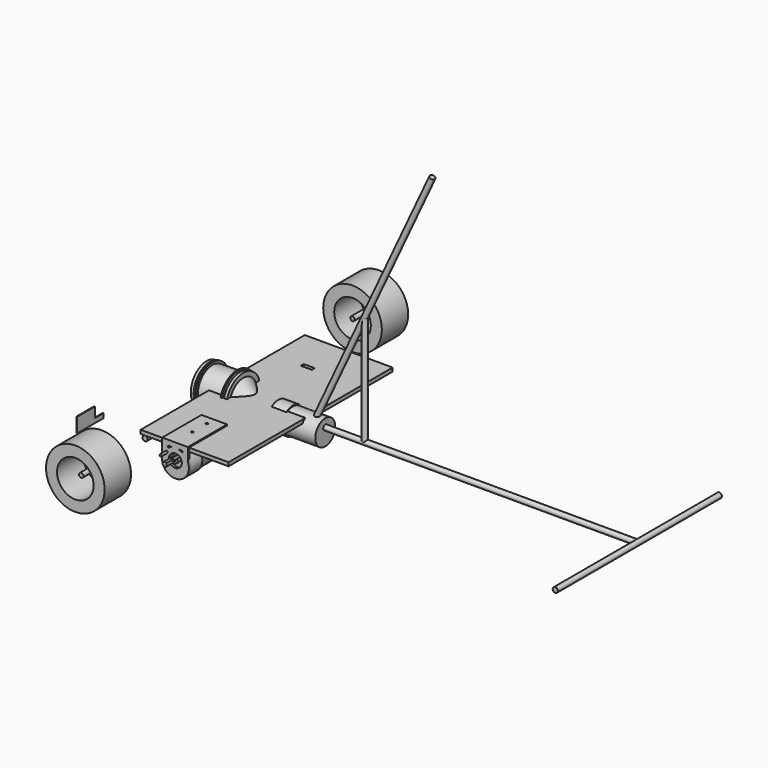
from build123d import *

# Parameters (mm, degrees)
CYLINDER001_R               = 3.5
CYLINDER001_DEPTH           = 280
CYLINDER001_ROLL_ANGLE      = 90
CYLINDER003_R               = 3.5
CYLINDER003_DEPTH           = 150
CYLINDER003_PITCH_ANGLE     = 90
CYLINDER003_PLACEMENT_ANGLE = 36
CYLINDER002_R               = 3.5
CYLINDER002_DEPTH           = 280
CYLINDER002_ROLL_ANGLE      = 90
CYLINDER004_R               = 3.5
CYLINDER004_DEPTH           = 150
CYLINDER004_PITCH_ANGLE     = 90
CYLINDER004_PLACEMENT_ANGLE = -36
CYLINDER005_R               = 3.5
CYLINDER005_DEPTH           = 150
CYLINDER006_R               = 3.5
CYLINDER006_DEPTH           = 384
CYLINDER006_PLACEMENT_ANGLE = 25
CYLINDER_R                  = 3.5
CYLINDER_DEPTH              = 560
CYLINDER_PITCH_ANGLE        = 90
CYLINDER014_R               = 17
CYLINDER014_DEPTH           = 14
CYLINDER015_R               = 5.5
CYLINDER015_DEPTH           = 6
CYLINDER013_R               = 17
CYLINDER013_DEPTH           = 30
BOX002_W                    = 11
BOX002_H                    = 10
BOX002_DEPTH                = 21
CYLINDER016_R               = 3
CYLINDER016_DEPTH           = 15
CYLINDER012_R               = 18.4
CYLINDER012_DEPTH           = 20
FUSION002_ROLL_ANGLE        = 90
CYLINDER019_R               = 17
CYLINDER019_DEPTH           = 14
CYLINDER020_R               = 5.5
CYLINDER020_DEPTH           = 6
CYLINDER018_R               = 17
CYLINDER018_DEPTH           = 30
BOX003_W                    = 11
BOX003_H                    = 10
BOX003_DEPTH                = 21
CYLINDER021_R               = 3
CYLINDER021_DEPTH           = 15
CYLINDER017_R               = 18.4
CYLINDER017_DEPTH           = 20
FUSION003_ROLL_ANGLE        = 90
FUSION003_PLACEMENT_ANGLE   = 180
BOX005_W                    = 15
BOX005_H                    = 5
BOX005_DEPTH                = 16
BOX004_W                    = 15
BOX004_H                    = 5
BOX004_DEPTH                = 16
BOX_W                       = 120
BOX_H                       = 280
BOX_DEPTH                   = 5
CYLINDER024_R               = 3
CYLINDER024_DEPTH           = 35
CYLINDER024_ROLL_ANGLE      = 90
CYLINDER023_R               = 25
CYLINDER023_DEPTH           = 60
CYLINDER023_ROLL_ANGLE      = 90
CYLINDER022_R               = 40
CYLINDER022_DEPTH           = 45
CYLINDER022_ROLL_ANGLE      = 90
CYLINDER027_R               = 3
CYLINDER027_DEPTH           = 35
CYLINDER027_ROLL_ANGLE      = 90
CYLINDER026_R               = 25
CYLINDER026_DEPTH           = 60
CYLINDER026_ROLL_ANGLE      = 90
CYLINDER025_R               = 40
CYLINDER025_DEPTH           = 45
CYLINDER025_ROLL_ANGLE      = 90
FUSION005_PLACEMENT_ANGLE   = 180
BOX007_W                    = 10
BOX007_H                    = 15
BOX007_DEPTH                = 14
BOX006_W                    = 1
BOX006_H                    = 45
BOX006_DEPTH                = 20
CYLINDER030_R               = 17
CYLINDER030_DEPTH           = 14
CYLINDER031_R               = 5.5
CYLINDER031_DEPTH           = 6
CYLINDER029_R               = 17
CYLINDER029_DEPTH           = 30
BOX008_W                    = 11
BOX008_H                    = 10
BOX008_DEPTH                = 21
CYLINDER032_R               = 3
CYLINDER032_DEPTH           = 15
CYLINDER028_R               = 18.4
CYLINDER028_DEPTH           = 20
FUSION006_ROLL_ANGLE        = 90
FUSION006_PLACEMENT_ANGLE   = -90
CYLINDER040_R               = 23
CYLINDER040_DEPTH           = 50
CYLINDER040_PITCH_ANGLE     = 90
CYLINDER039_R               = 25
CYLINDER039_DEPTH           = 34
CYLINDER039_PITCH_ANGLE     = 90
CYLINDER038_R               = 28
CYLINDER038_DEPTH           = 2
CYLINDER038_PITCH_ANGLE     = 90
CYLINDER037_R               = 25
CYLINDER037_DEPTH           = 2
CYLINDER037_PITCH_ANGLE     = 90
CYLINDER036_R               = 27
CYLINDER036_DEPTH           = 4
CYLINDER036_PITCH_ANGLE     = 90
FUSION008_PLACEMENT_ANGLE   = 180
CYLINDER035_R               = 30
CYLINDER035_DEPTH           = 2
CYLINDER035_PITCH_ANGLE     = 90
CYLINDER034_R               = 26
CYLINDER034_DEPTH           = 2
CYLINDER034_PITCH_ANGLE     = 90
CYLINDER033_R               = 29
CYLINDER033_DEPTH           = 4
CYLINDER033_PITCH_ANGLE     = 90
BOX009_W                    = 11
BOX009_H                    = 10
BOX009_DEPTH                = 21
CYLINDER041_R               = 3
CYLINDER041_DEPTH           = 15
CUT009_PITCH_ANGLE          = 90
CONE_PITCH_ANGLE            = -90
BOX012_W                    = 50
BOX012_H                    = 2
BOX012_DEPTH                = 46
BOX012_ROLL_ANGLE           = 45
BOX013_W                    = 50
BOX013_H                    = 2
BOX013_DEPTH                = 46
BOX013_ROLL_ANGLE           = -45
BOX011_W                    = 50
BOX011_H                    = 2
BOX011_DEPTH                = 46
BOX011_ROLL_ANGLE           = 90
BOX010_W                    = 50
BOX010_H                    = 2
BOX010_DEPTH                = 46
CYLINDER047_R               = 2.5
CYLINDER047_DEPTH           = 10
CYLINDER046_R               = 2.5
CYLINDER046_DEPTH           = 10
CYLINDER045_R               = 1.6
CYLINDER045_DEPTH           = 10
CYLINDER044_R               = 1.6
CYLINDER044_DEPTH           = 10
CYLINDER043_R               = 8.8
CYLINDER043_DEPTH           = 3
CYLINDER043_ROLL_ANGLE      = 90
CYLINDER042_R               = 18.4
CYLINDER042_DEPTH           = 3
CYLINDER042_ROLL_ANGLE      = 90
BOX015_W                    = 8
BOX015_H                    = 3
BOX015_DEPTH                = 23
BOX016_W                    = 7
BOX016_H                    = 3
BOX016_DEPTH                = 23
BOX014_W                    = 35
BOX014_H                    = 67
BOX014_DEPTH                = 7
CYLINDER048_R               = 1.5
CYLINDER048_DEPTH           = 10
CYLINDER048_ROLL_ANGLE      = 90
CYLINDER049_R               = 1.5
CYLINDER049_DEPTH           = 10
CYLINDER049_ROLL_ANGLE      = 90


with BuildPart() as obj1:
    # Cylinder001 → Cylinder001 (new body)
    with BuildSketch(Plane.XY):
        Circle(CYLINDER001_R)
    extrude(amount=CYLINDER001_DEPTH)


with BuildPart() as obj1_1:
    # Cylinder001 roll: moved
    add(obj1.part.rotate(Axis((0, 0, 0), (1, 0, 0)), CYLINDER001_ROLL_ANGLE))


with BuildPart() as obj1_2:
    # Cylinder001 placement: moved
    add(obj1_1.part.moved(Location((0, 140, 0))))


with BuildPart() as soporte_derecho:
    # Cylinder003 → Cylinder003 (new body)
    with BuildSketch(Plane.XY):
        Circle(CYLINDER003_R)
    extrude(amount=CYLINDER003_DEPTH)


with BuildPart() as soporte_derecho_1:
    # Cylinder003 pitch: moved
    add(soporte_derecho.part.rotate(Axis((0, 0, 0), (0, 1, 0)), CYLINDER003_PITCH_ANGLE))


with BuildPart() as soporte_derecho_2:
    # Cylinder003 placement: moved
    add(soporte_derecho_1.part.moved(Location((0, -90, 0))).rotate(Axis((0, -90, 0), (0, 0, 1)), CYLINDER003_PLACEMENT_ANGLE))


with BuildPart() as obj2:
    # Cylinder002 → Cylinder002 (new body)
    with BuildSketch(Plane.XY):
        Circle(CYLINDER002_R)
    extrude(amount=CYLINDER002_DEPTH)


with BuildPart() as obj2_1:
    # Cylinder002 roll: moved
    add(obj2.part.rotate(Axis((0, 0, 0), (1, 0, 0)), CYLINDER002_ROLL_ANGLE))


with BuildPart() as obj2_2:
    # Cylinder002 placement: moved
    add(obj2_1.part.moved(Location((560, 140, 0))))


with BuildPart() as soporte_izquierdo:
    # Cylinder004 → Cylinder004 (new body)
    with BuildSketch(Plane.XY):
        Circle(CYLINDER004_R)
    extrude(amount=CYLINDER004_DEPTH)


with BuildPart() as soporte_izquierdo_1:
    # Cylinder004 pitch: moved
    add(soporte_izquierdo.part.rotate(Axis((0, 0, 0), (0, 1, 0)), CYLINDER004_PITCH_ANGLE))


with BuildPart() as soporte_izquierdo_2:
    # Cylinder004 placement: moved
    add(soporte_izquierdo_1.part.moved(Location((0, 90, 0))).rotate(Axis((0, 90, 0), (0, 0, 1)), CYLINDER004_PLACEMENT_ANGLE))


with BuildPart() as obj3:
    # Cylinder005 → Cylinder005 (new body)
    with BuildSketch(Plane(origin=(188, 0, 0), x_dir=(1, 0, 0), z_dir=(0, 0, 1))):
        Circle(CYLINDER005_R)
    extrude(amount=CYLINDER005_DEPTH)


with BuildPart() as obj4:
    # Cylinder006 → Cylinder006 (new body)
    with BuildSketch(Plane.XY):
        Circle(CYLINDER006_R)
    extrude(amount=CYLINDER006_DEPTH)


with BuildPart() as obj4_1:
    # Cylinder006 placement: moved
    add(obj4.part.moved(Location((118, 0, 0))).rotate(Axis((118, 0, 0), (0, 1, 0)), CYLINDER006_PLACEMENT_ANGLE))


with BuildPart() as obj5:
    # Cylinder → Cylinder (new body)
    with BuildSketch(Plane.XY):
        Circle(CYLINDER_R)
    extrude(amount=CYLINDER_DEPTH)


with BuildPart() as obj5_1:
    # Cylinder pitch: moved
    add(obj5.part.rotate(Axis((0, 0, 0), (0, 1, 0)), CYLINDER_PITCH_ANGLE))


with BuildPart() as obj5_2:
    # Cylinder placement: moved
    add(obj5_1.part)

    # Fusion: union obj1, Soporte Derecho, obj2, Soporte Izquierdo, obj3, obj4
    add(obj1_2.part)
    add(soporte_derecho_2.part)
    add(obj2_2.part)
    add(soporte_izquierdo_2.part)
    add(obj3.part)
    add(obj4_1.part)


with BuildPart() as encoder001:
    # Cylinder014 → Cylinder014 (new body)
    with BuildSketch(Plane(origin=(0, -298, 0), x_dir=(1, 0, 0), z_dir=(0, 0, 1))):
        Circle(CYLINDER014_R)
    extrude(amount=CYLINDER014_DEPTH)


with BuildPart() as cilindro002:
    # Cylinder015 → Cylinder015 (new body)
    with BuildSketch(Plane(origin=(0, -292, 64), x_dir=(1, 0, 0), z_dir=(0, 0, 1))):
        Circle(CYLINDER015_R)
    extrude(amount=CYLINDER015_DEPTH)


with BuildPart() as motor001:
    # Cylinder013 → Cylinder013 (new body)
    with BuildSketch(Plane(origin=(0, -298, 14), x_dir=(1, 0, 0), z_dir=(0, 0, 1))):
        Circle(CYLINDER013_R)
    extrude(amount=CYLINDER013_DEPTH)


with BuildPart() as cubo001:
    # Box002 → Box002 (new body)
    with BuildSketch(Plane(origin=(2, -191, -2), x_dir=(1, 0, 0), z_dir=(0, 0, 1))):
        with Locations((5.5, 5)):
            Rectangle(BOX002_W, BOX002_H)
    extrude(amount=BOX002_DEPTH)


with BuildPart() as cut001:
    # Cylinder016 → Cylinder016 (new body)
    with BuildSketch(Plane(origin=(0, -186, 0), x_dir=(1, 0, 0), z_dir=(0, 0, 1))):
        Circle(CYLINDER016_R)
    extrude(amount=CYLINDER016_DEPTH)

    # Cut001: cut Cubo001
    add(cubo001.part, mode=Mode.SUBTRACT)


with BuildPart() as cut001_1:
    # Cut001 placement: moved
    add(cut001.part.moved(Location((0, -106, 70))))


with BuildPart() as obj6:
    # Cylinder012 → Cylinder012 (new body)
    with BuildSketch(Plane(origin=(0, -298, 44), x_dir=(1, 0, 0), z_dir=(0, 0, 1))):
        Circle(CYLINDER012_R)
    extrude(amount=CYLINDER012_DEPTH)

    # Fusion002: union Encoder001, Cilindro002, Motor001, Cut001
    add(encoder001.part)
    add(cilindro002.part)
    add(motor001.part)
    add(cut001_1.part)


with BuildPart() as obj6_1:
    # Fusion002 roll: moved
    add(obj6.part.rotate(Axis((0, 0, 0), (1, 0, 0)), FUSION002_ROLL_ANGLE))


with BuildPart() as obj6_2:
    # Fusion002 placement: moved
    add(obj6_1.part.moved(Location((43, -75, 283))))


with BuildPart() as encoder002:
    # Cylinder019 → Cylinder019 (new body)
    with BuildSketch(Plane(origin=(0, -298, 0), x_dir=(1, 0, 0), z_dir=(0, 0, 1))):
        Circle(CYLINDER019_R)
    extrude(amount=CYLINDER019_DEPTH)


with BuildPart() as cilindro004:
    # Cylinder020 → Cylinder020 (new body)
    with BuildSketch(Plane(origin=(0, -292, 64), x_dir=(1, 0, 0), z_dir=(0, 0, 1))):
        Circle(CYLINDER020_R)
    extrude(amount=CYLINDER020_DEPTH)


with BuildPart() as motor002:
    # Cylinder018 → Cylinder018 (new body)
    with BuildSketch(Plane(origin=(0, -298, 14), x_dir=(1, 0, 0), z_dir=(0, 0, 1))):
        Circle(CYLINDER018_R)
    extrude(amount=CYLINDER018_DEPTH)


with BuildPart() as cubo002:
    # Box003 → Box003 (new body)
    with BuildSketch(Plane(origin=(2, -191, -2), x_dir=(1, 0, 0), z_dir=(0, 0, 1))):
        with Locations((5.5, 5)):
            Rectangle(BOX003_W, BOX003_H)
    extrude(amount=BOX003_DEPTH)


with BuildPart() as cut002:
    # Cylinder021 → Cylinder021 (new body)
    with BuildSketch(Plane(origin=(0, -186, 0), x_dir=(1, 0, 0), z_dir=(0, 0, 1))):
        Circle(CYLINDER021_R)
    extrude(amount=CYLINDER021_DEPTH)

    # Cut002: cut Cubo002
    add(cubo002.part, mode=Mode.SUBTRACT)


with BuildPart() as cut002_1:
    # Cut002 placement: moved
    add(cut002.part.moved(Location((0, -106, 70))))


with BuildPart() as obj7:
    # Cylinder017 → Cylinder017 (new body)
    with BuildSketch(Plane(origin=(0, -298, 44), x_dir=(1, 0, 0), z_dir=(0, 0, 1))):
        Circle(CYLINDER017_R)
    extrude(amount=CYLINDER017_DEPTH)

    # Fusion003: union Encoder002, Cilindro004, Motor002, Cut002
    add(encoder002.part)
    add(cilindro004.part)
    add(motor002.part)
    add(cut002_1.part)


with BuildPart() as obj7_1:
    # Fusion003 roll: moved
    add(obj7.part.rotate(Axis((0, 0, 0), (1, 0, 0)), FUSION003_ROLL_ANGLE))


with BuildPart() as obj7_2:
    # Fusion003 placement: moved
    add(obj7_1.part.moved(Location((43, 75, 283))).rotate(Axis((43, 75, 283), (0, 0, 1)), FUSION003_PLACEMENT_ANGLE))


with BuildPart() as cubo004:
    # Box005 → Box005 (new body)
    with BuildSketch(Plane(origin=(35, 82, 69), x_dir=(1, 0, 0), z_dir=(0, 0, 1))):
        with Locations((7.5, 2.5)):
            Rectangle(BOX005_W, BOX005_H)
    extrude(amount=BOX005_DEPTH)


with BuildPart() as cubo003:
    # Box004 → Box004 (new body)
    with BuildSketch(Plane(origin=(35, -87, 68), x_dir=(1, 0, 0), z_dir=(0, 0, 1))):
        with Locations((7.5, 2.5)):
            Rectangle(BOX004_W, BOX004_H)
    extrude(amount=BOX004_DEPTH)


with BuildPart() as obj8:
    # Box → Box (new body)
    with BuildSketch(Plane(origin=(-6, -140, 73.5), x_dir=(1, 0, 0), z_dir=(0, 0, 1))):
        with Locations((60, 140)):
            Rectangle(BOX_W, BOX_H)
    extrude(amount=BOX_DEPTH)

    # Cut003: cut Cubo003
    add(cubo003.part, mode=Mode.SUBTRACT)

    # Cut004: cut Cubo004
    add(cubo004.part, mode=Mode.SUBTRACT)


with BuildPart() as obj8_1:
    # Cut004 placement: moved
    add(obj8.part.moved(Location((0, 0, -70))))


with BuildPart() as cilindro007:
    # Cylinder024 → Cylinder024 (new body)
    with BuildSketch(Plane.XY):
        Circle(CYLINDER024_R)
    extrude(amount=CYLINDER024_DEPTH)


with BuildPart() as cilindro007_1:
    # Cylinder024 roll: moved
    add(cilindro007.part.rotate(Axis((0, 0, 0), (1, 0, 0)), CYLINDER024_ROLL_ANGLE))


with BuildPart() as cilindro007_2:
    # Cylinder024 placement: moved
    add(cilindro007_1.part.moved(Location((0, -214, 0))))


with BuildPart() as cilindro006:
    # Cylinder023 → Cylinder023 (new body)
    with BuildSketch(Plane.XY):
        Circle(CYLINDER023_R)
    extrude(amount=CYLINDER023_DEPTH)


with BuildPart() as cilindro006_1:
    # Cylinder023 roll: moved
    add(cilindro006.part.rotate(Axis((0, 0, 0), (1, 0, 0)), CYLINDER023_ROLL_ANGLE))


with BuildPart() as cilindro006_2:
    # Cylinder023 placement: moved
    add(cilindro006_1.part.moved(Location((0, -207, 0))))


with BuildPart() as rueda_derecha:
    # Cylinder022 → Cylinder022 (new body)
    with BuildSketch(Plane.XY):
        Circle(CYLINDER022_R)
    extrude(amount=CYLINDER022_DEPTH)


with BuildPart() as rueda_derecha_1:
    # Cylinder022 roll: moved
    add(rueda_derecha.part.rotate(Axis((0, 0, 0), (1, 0, 0)), CYLINDER022_ROLL_ANGLE))


with BuildPart() as rueda_derecha_2:
    # Cylinder022 placement: moved
    add(rueda_derecha_1.part.moved(Location((0, -214, 0))))

    # Cut: cut Cilindro006
    add(cilindro006_2.part, mode=Mode.SUBTRACT)

    # Fusion004: union Cilindro007
    add(cilindro007_2.part)


with BuildPart() as cilindro010:
    # Cylinder027 → Cylinder027 (new body)
    with BuildSketch(Plane.XY):
        Circle(CYLINDER027_R)
    extrude(amount=CYLINDER027_DEPTH)


with BuildPart() as cilindro010_1:
    # Cylinder027 roll: moved
    add(cilindro010.part.rotate(Axis((0, 0, 0), (1, 0, 0)), CYLINDER027_ROLL_ANGLE))


with BuildPart() as cilindro010_2:
    # Cylinder027 placement: moved
    add(cilindro010_1.part.moved(Location((0, -214, 0))))


with BuildPart() as cilindro009:
    # Cylinder026 → Cylinder026 (new body)
    with BuildSketch(Plane.XY):
        Circle(CYLINDER026_R)
    extrude(amount=CYLINDER026_DEPTH)


with BuildPart() as cilindro009_1:
    # Cylinder026 roll: moved
    add(cilindro009.part.rotate(Axis((0, 0, 0), (1, 0, 0)), CYLINDER026_ROLL_ANGLE))


with BuildPart() as cilindro009_2:
    # Cylinder026 placement: moved
    add(cilindro009_1.part.moved(Location((0, -207, 0))))


with BuildPart() as rueda_izquierda:
    # Cylinder025 → Cylinder025 (new body)
    with BuildSketch(Plane.XY):
        Circle(CYLINDER025_R)
    extrude(amount=CYLINDER025_DEPTH)


with BuildPart() as rueda_izquierda_1:
    # Cylinder025 roll: moved
    add(rueda_izquierda.part.rotate(Axis((0, 0, 0), (1, 0, 0)), CYLINDER025_ROLL_ANGLE))


with BuildPart() as rueda_izquierda_2:
    # Cylinder025 placement: moved
    add(rueda_izquierda_1.part.moved(Location((0, -214, 0))))

    # Cut005: cut Cilindro009
    add(cilindro009_2.part, mode=Mode.SUBTRACT)

    # Fusion005: union Cilindro010
    add(cilindro010_2.part)


with BuildPart() as rueda_izquierda_3:
    # Fusion005 placement: moved
    add(rueda_izquierda_2.part.rotate(Axis((0, 0, 0), (0, 0, 1)), FUSION005_PLACEMENT_ANGLE))


with BuildPart() as cubo005:
    # Box007 → Box007 (new body)
    with BuildSketch(Plane(origin=(-4, -227, 60), x_dir=(1, 0, 0), z_dir=(0, 0, 1))):
        with Locations((5, 7.5)):
            Rectangle(BOX007_W, BOX007_H)
    extrude(amount=BOX007_DEPTH)


with BuildPart() as cut006:
    # Box006 → Box006 (new body)
    with BuildSketch(Plane(origin=(0, -257, 54), x_dir=(1, 0, 0), z_dir=(0, 0, 1))):
        with Locations((0.5, 22.5)):
            Rectangle(BOX006_W, BOX006_H)
    extrude(amount=BOX006_DEPTH)

    # Cut006: cut Cubo005
    add(cubo005.part, mode=Mode.SUBTRACT)


with BuildPart() as encoder003:
    # Cylinder030 → Cylinder030 (new body)
    with BuildSketch(Plane(origin=(0, -298, 0), x_dir=(1, 0, 0), z_dir=(0, 0, 1))):
        Circle(CYLINDER030_R)
    extrude(amount=CYLINDER030_DEPTH)


with BuildPart() as cilindro011:
    # Cylinder031 → Cylinder031 (new body)
    with BuildSketch(Plane(origin=(0, -292, 64), x_dir=(1, 0, 0), z_dir=(0, 0, 1))):
        Circle(CYLINDER031_R)
    extrude(amount=CYLINDER031_DEPTH)


with BuildPart() as motor003:
    # Cylinder029 → Cylinder029 (new body)
    with BuildSketch(Plane(origin=(0, -298, 14), x_dir=(1, 0, 0), z_dir=(0, 0, 1))):
        Circle(CYLINDER029_R)
    extrude(amount=CYLINDER029_DEPTH)


with BuildPart() as cubo006:
    # Box008 → Box008 (new body)
    with BuildSketch(Plane(origin=(2, -191, -2), x_dir=(1, 0, 0), z_dir=(0, 0, 1))):
        with Locations((5.5, 5)):
            Rectangle(BOX008_W, BOX008_H)
    extrude(amount=BOX008_DEPTH)


with BuildPart() as cut007:
    # Cylinder032 → Cylinder032 (new body)
    with BuildSketch(Plane(origin=(0, -186, 0), x_dir=(1, 0, 0), z_dir=(0, 0, 1))):
        Circle(CYLINDER032_R)
    extrude(amount=CYLINDER032_DEPTH)

    # Cut007: cut Cubo006
    add(cubo006.part, mode=Mode.SUBTRACT)


with BuildPart() as cut007_1:
    # Cut007 placement: moved
    add(cut007.part.moved(Location((0, -106, 70))))


with BuildPart() as obj9:
    # Cylinder028 → Cylinder028 (new body)
    with BuildSketch(Plane(origin=(0, -298, 44), x_dir=(1, 0, 0), z_dir=(0, 0, 1))):
        Circle(CYLINDER028_R)
    extrude(amount=CYLINDER028_DEPTH)

    # Fusion006: union Encoder003, Cilindro011, Motor003, Cut007
    add(encoder003.part)
    add(cilindro011.part)
    add(motor003.part)
    add(cut007_1.part)


with BuildPart() as obj9_1:
    # Fusion006 roll: moved
    add(obj9.part.rotate(Axis((0, 0, 0), (1, 0, 0)), FUSION006_ROLL_ANGLE))


with BuildPart() as obj9_2:
    # Fusion006 placement: moved
    add(obj9_1.part.moved(Location((134, 0, 292))).rotate(Axis((134, 0, 292), (0, 0, 1)), FUSION006_PLACEMENT_ANGLE))


with BuildPart() as corte:
    # Cylinder040 → Cylinder040 (new body)
    with BuildSketch(Plane.XY):
        Circle(CYLINDER040_R)
    extrude(amount=CYLINDER040_DEPTH)


with BuildPart() as corte_1:
    # Cylinder040 pitch: moved
    add(corte.part.rotate(Axis((0, 0, 0), (0, 1, 0)), CYLINDER040_PITCH_ANGLE))


with BuildPart() as corte_2:
    # Cylinder040 placement: moved
    add(corte_1.part.moved(Location((-28, 0, 0))))


with BuildPart() as centro:
    # Cylinder039 → Cylinder039 (new body)
    with BuildSketch(Plane.XY):
        Circle(CYLINDER039_R)
    extrude(amount=CYLINDER039_DEPTH)


with BuildPart() as centro_1:
    # Cylinder039 pitch: moved
    add(centro.part.rotate(Axis((0, 0, 0), (0, 1, 0)), CYLINDER039_PITCH_ANGLE))


with BuildPart() as centro_2:
    # Cylinder039 placement: moved
    add(centro_1.part.moved(Location((-20, 0, 0))))


with BuildPart() as cilindro018:
    # Cylinder038 → Cylinder038 (new body)
    with BuildSketch(Plane.XY):
        Circle(CYLINDER038_R)
    extrude(amount=CYLINDER038_DEPTH)


with BuildPart() as cilindro018_1:
    # Cylinder038 pitch: moved
    add(cilindro018.part.rotate(Axis((0, 0, 0), (0, 1, 0)), CYLINDER038_PITCH_ANGLE))


with BuildPart() as cilindro018_2:
    # Cylinder038 placement: moved
    add(cilindro018_1.part.moved(Location((-4, 0, 0))))


with BuildPart() as cilindro017:
    # Cylinder037 → Cylinder037 (new body)
    with BuildSketch(Plane.XY):
        Circle(CYLINDER037_R)
    extrude(amount=CYLINDER037_DEPTH)


with BuildPart() as cilindro017_1:
    # Cylinder037 pitch: moved
    add(cilindro017.part.rotate(Axis((0, 0, 0), (0, 1, 0)), CYLINDER037_PITCH_ANGLE))


with BuildPart() as cilindro017_2:
    # Cylinder037 placement: moved
    add(cilindro017_1.part.moved(Location((-2, 0, 0))))


with BuildPart() as obj10:
    # Cylinder036 → Cylinder036 (new body)
    with BuildSketch(Plane.XY):
        Circle(CYLINDER036_R)
    extrude(amount=CYLINDER036_DEPTH)


with BuildPart() as obj10_1:
    # Cylinder036 pitch: moved
    add(obj10.part.rotate(Axis((0, 0, 0), (0, 1, 0)), CYLINDER036_PITCH_ANGLE))


with BuildPart() as obj10_2:
    # Cylinder036 placement: moved
    add(obj10_1.part)

    # Fusion008: union Cilindro018, Cilindro017
    add(cilindro018_2.part)
    add(cilindro017_2.part)


with BuildPart() as obj10_3:
    # Fusion008 placement: moved
    add(obj10_2.part.moved(Location((-24, 0, 0))).rotate(Axis((-24, 0, 0), (0, 1, 0)), FUSION008_PLACEMENT_ANGLE))


with BuildPart() as cilindro015:
    # Cylinder035 → Cylinder035 (new body)
    with BuildSketch(Plane.XY):
        Circle(CYLINDER035_R)
    extrude(amount=CYLINDER035_DEPTH)


with BuildPart() as cilindro015_1:
    # Cylinder035 pitch: moved
    add(cilindro015.part.rotate(Axis((0, 0, 0), (0, 1, 0)), CYLINDER035_PITCH_ANGLE))


with BuildPart() as cilindro015_2:
    # Cylinder035 placement: moved
    add(cilindro015_1.part.moved(Location((-4, 0, 0))))


with BuildPart() as cilindro014:
    # Cylinder034 → Cylinder034 (new body)
    with BuildSketch(Plane.XY):
        Circle(CYLINDER034_R)
    extrude(amount=CYLINDER034_DEPTH)


with BuildPart() as cilindro014_1:
    # Cylinder034 pitch: moved
    add(cilindro014.part.rotate(Axis((0, 0, 0), (0, 1, 0)), CYLINDER034_PITCH_ANGLE))


with BuildPart() as cilindro014_2:
    # Cylinder034 placement: moved
    add(cilindro014_1.part.moved(Location((-2, 0, 0))))


with BuildPart() as rin:
    # Cylinder033 → Cylinder033 (new body)
    with BuildSketch(Plane.XY):
        Circle(CYLINDER033_R)
    extrude(amount=CYLINDER033_DEPTH)


with BuildPart() as rin_1:
    # Cylinder033 pitch: moved
    add(rin.part.rotate(Axis((0, 0, 0), (0, 1, 0)), CYLINDER033_PITCH_ANGLE))


with BuildPart() as rin_2:
    # Cylinder033 placement: moved
    add(rin_1.part)

    # Fusion007: union Cilindro015, Cilindro014
    add(cilindro015_2.part)
    add(cilindro014_2.part)


with BuildPart() as rin_3:
    # Fusion007 placement: moved
    add(rin_2.part.moved(Location((18, 0, 0))))

    # Fusion009: union Centro, obj10
    add(centro_2.part)
    add(obj10_3.part)

    # Cut008: cut Corte
    add(corte_2.part, mode=Mode.SUBTRACT)


with BuildPart() as cubo007:
    # Box009 → Box009 (new body)
    with BuildSketch(Plane(origin=(2, -191, -2), x_dir=(1, 0, 0), z_dir=(0, 0, 1))):
        with Locations((5.5, 5)):
            Rectangle(BOX009_W, BOX009_H)
    extrude(amount=BOX009_DEPTH)


with BuildPart() as cut009:
    # Cylinder041 → Cylinder041 (new body)
    with BuildSketch(Plane(origin=(0, -186, 0), x_dir=(1, 0, 0), z_dir=(0, 0, 1))):
        Circle(CYLINDER041_R)
    extrude(amount=CYLINDER041_DEPTH)

    # Cut009: cut Cubo007
    add(cubo007.part, mode=Mode.SUBTRACT)


with BuildPart() as cut009_1:
    # Cut009 pitch: moved
    add(cut009.part.rotate(Axis((0, 0, 0), (0, 1, 0)), CUT009_PITCH_ANGLE))


with BuildPart() as cut009_2:
    # Cut009 placement: moved
    add(cut009_1.part.moved(Location((86, 186, 0))))


with BuildPart() as cono_rin:
    # Cone → Cone (revolve)
    with BuildSketch(Plane.XZ):
        Polygon((0, 0), (5, 0), (23, 20), (0, 20), align=None)
    revolve(axis=Axis((0, 0, 0), (0, 0, 1)))


with BuildPart() as cono_rin_1:
    # Cone pitch: moved
    add(cono_rin.part.rotate(Axis((0, 0, 0), (0, 1, 0)), CONE_PITCH_ANGLE))


with BuildPart() as cono_rin_2:
    # Cone placement: moved
    add(cono_rin_1.part.moved(Location((100, 0, 0))))

    # Cut010: cut Cut009
    add(cut009_2.part, mode=Mode.SUBTRACT)


with BuildPart() as cono_rin_3:
    # Cut010 placement: moved
    add(cono_rin_2.part.moved(Location((-58, 0, 0))))


with BuildPart() as cubo010:
    # Box012 → Box012 (new body)
    with BuildSketch(Plane.XY):
        with Locations((25, 1)):
            Rectangle(BOX012_W, BOX012_H)
    extrude(amount=BOX012_DEPTH)


with BuildPart() as cubo010_1:
    # Box012 roll: moved
    add(cubo010.part.rotate(Axis((0, 0, 0), (1, 0, 0)), BOX012_ROLL_ANGLE))


with BuildPart() as cubo010_2:
    # Box012 placement: moved
    add(cubo010_1.part.moved(Location((-28, 16.5, -16))))


with BuildPart() as cubo011:
    # Box013 → Box013 (new body)
    with BuildSketch(Plane.XY):
        with Locations((25, 1)):
            Rectangle(BOX013_W, BOX013_H)
    extrude(amount=BOX013_DEPTH)


with BuildPart() as cubo011_1:
    # Box013 roll: moved
    add(cubo011.part.rotate(Axis((0, 0, 0), (1, 0, 0)), BOX013_ROLL_ANGLE))


with BuildPart() as cubo011_2:
    # Box013 placement: moved
    add(cubo011_1.part.moved(Location((-28, -16.5, -16))))


with BuildPart() as cubo009:
    # Box011 → Box011 (new body)
    with BuildSketch(Plane.XY):
        with Locations((25, 1)):
            Rectangle(BOX011_W, BOX011_H)
    extrude(amount=BOX011_DEPTH)


with BuildPart() as cubo009_1:
    # Box011 roll: moved
    add(cubo009.part.rotate(Axis((0, 0, 0), (1, 0, 0)), BOX011_ROLL_ANGLE))


with BuildPart() as cubo009_2:
    # Box011 placement: moved
    add(cubo009_1.part.moved(Location((-28, 23, 0))))


with BuildPart() as obj11:
    # Box010 → Box010 (new body)
    with BuildSketch(Plane(origin=(-28, 0, -23), x_dir=(1, 0, 0), z_dir=(0, 0, 1))):
        with Locations((25, 1)):
            Rectangle(BOX010_W, BOX010_H)
    extrude(amount=BOX010_DEPTH)

    # Fusion010: union Cubo010, Cubo011, Cubo009
    add(cubo010_2.part)
    add(cubo011_2.part)
    add(cubo009_2.part)


with BuildPart() as cilindro025:
    # Cylinder047 → Cylinder047 (new body)
    with BuildSketch(Plane(origin=(42, -112, -5), x_dir=(1, 0, 0), z_dir=(0, 0, 1))):
        Circle(CYLINDER047_R)
    extrude(amount=CYLINDER047_DEPTH)


with BuildPart() as cilindro024:
    # Cylinder046 → Cylinder046 (new body)
    with BuildSketch(Plane(origin=(42, -87, -5), x_dir=(1, 0, 0), z_dir=(0, 0, 1))):
        Circle(CYLINDER046_R)
    extrude(amount=CYLINDER046_DEPTH)


with BuildPart() as cilindro023:
    # Cylinder045 → Cylinder045 (new body)
    with BuildSketch(Plane(origin=(42, -87, 1), x_dir=(1, 0, 0), z_dir=(0, 0, 1))):
        Circle(CYLINDER045_R)
    extrude(amount=CYLINDER045_DEPTH)


with BuildPart() as cilindro022:
    # Cylinder044 → Cylinder044 (new body)
    with BuildSketch(Plane(origin=(42, -112, 1), x_dir=(1, 0, 0), z_dir=(0, 0, 1))):
        Circle(CYLINDER044_R)
    extrude(amount=CYLINDER044_DEPTH)


with BuildPart() as cilindro021:
    # Cylinder043 → Cylinder043 (new body)
    with BuildSketch(Plane.XY):
        Circle(CYLINDER043_R)
    extrude(amount=CYLINDER043_DEPTH)


with BuildPart() as cilindro021_1:
    # Cylinder043 roll: moved
    add(cilindro021.part.rotate(Axis((0, 0, 0), (1, 0, 0)), CYLINDER043_ROLL_ANGLE))


with BuildPart() as cilindro021_2:
    # Cylinder043 placement: moved
    add(cilindro021_1.part.moved(Location((43, -139, -12))))


with BuildPart() as cut011:
    # Cylinder042 → Cylinder042 (new body)
    with BuildSketch(Plane.XY):
        Circle(CYLINDER042_R)
    extrude(amount=CYLINDER042_DEPTH)


with BuildPart() as cut011_1:
    # Cylinder042 roll: moved
    add(cut011.part.rotate(Axis((0, 0, 0), (1, 0, 0)), CYLINDER042_ROLL_ANGLE))


with BuildPart() as cut011_2:
    # Cylinder042 placement: moved
    add(cut011_1.part.moved(Location((43, -139, -15))))

    # Cut011: cut Cilindro021
    add(cilindro021_2.part, mode=Mode.SUBTRACT)


with BuildPart() as cubo013:
    # Box015 → Box015 (new body)
    with BuildSketch(Plane(origin=(25, -142, -15), x_dir=(1, 0, 0), z_dir=(0, 0, 1))):
        with Locations((4, 1.5)):
            Rectangle(BOX015_W, BOX015_H)
    extrude(amount=BOX015_DEPTH)


with BuildPart() as cubo014:
    # Box016 → Box016 (new body)
    with BuildSketch(Plane(origin=(53, -142, -15), x_dir=(1, 0, 0), z_dir=(0, 0, 1))):
        with Locations((3.5, 1.5)):
            Rectangle(BOX016_W, BOX016_H)
    extrude(amount=BOX016_DEPTH)


with BuildPart() as soporte_motor:
    # Box014 → Box014 (new body)
    with BuildSketch(Plane(origin=(25, -142, 3), x_dir=(1, 0, 0), z_dir=(0, 0, 1))):
        with Locations((17.5, 33.5)):
            Rectangle(BOX014_W, BOX014_H)
    extrude(amount=BOX014_DEPTH)

    # Fusion011: union Cut011, Cubo013, Cubo014
    add(cut011_2.part)
    add(cubo013.part)
    add(cubo014.part)

    # Cut012: cut Cilindro022
    add(cilindro022.part, mode=Mode.SUBTRACT)

    # Cut013: cut Cilindro023
    add(cilindro023.part, mode=Mode.SUBTRACT)

    # Cut014: cut Cilindro024
    add(cilindro024.part, mode=Mode.SUBTRACT)

    # Cut015: cut Cilindro025
    add(cilindro025.part, mode=Mode.SUBTRACT)


with BuildPart() as cilindro026:
    # Cylinder048 → Cylinder048 (new body)
    with BuildSketch(Plane.XY):
        Circle(CYLINDER048_R)
    extrude(amount=CYLINDER048_DEPTH)


with BuildPart() as cilindro026_1:
    # Cylinder048 roll: moved
    add(cilindro026.part.rotate(Axis((0, 0, 0), (1, 0, 0)), CYLINDER048_ROLL_ANGLE))


with BuildPart() as cilindro026_2:
    # Cylinder048 placement: moved
    add(cilindro026_1.part.moved(Location((35, -147, -2))))


with BuildPart() as cilindro027:
    # Cylinder049 → Cylinder049 (new body)
    with BuildSketch(Plane.XY):
        Circle(CYLINDER049_R)
    extrude(amount=CYLINDER049_DEPTH)


with BuildPart() as cilindro027_1:
    # Cylinder049 roll: moved
    add(cilindro027.part.rotate(Axis((0, 0, 0), (1, 0, 0)), CYLINDER049_ROLL_ANGLE))


with BuildPart() as cilindro027_2:
    # Cylinder049 placement: moved
    add(cilindro027_1.part.moved(Location((51, -147, -2))))


solid = Compound([obj5_2.part, obj6_2.part, obj7_2.part, obj8_1.part, rueda_derecha_2.part, rueda_izquierda_3.part, cut006.part, obj9_2.part, rin_3.part, cono_rin_3.part, obj11.part, soporte_motor.part, cilindro026_2.part, cilindro027_2.part])
